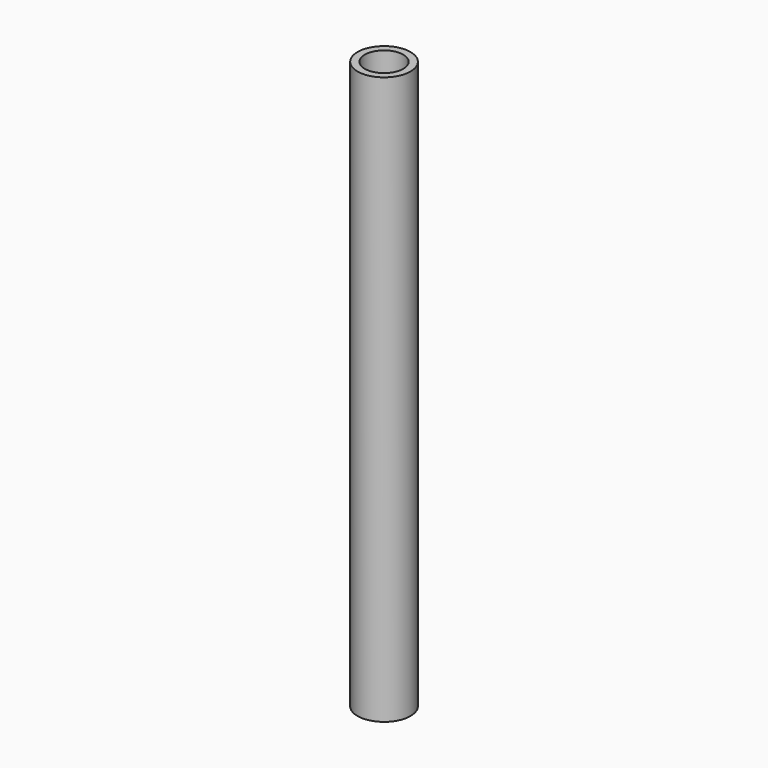
from build123d import *

# Parameters (mm, degrees)
F0_R     = 10.668
F0_R_2   = 7.747
F1_DEPTH = 228.6
F2_R     = 3.81
F3_DEPTH = 25.4


with BuildPart() as f1:
    # F0 (on Top) → F1 (new body)
    with BuildSketch(Plane.XY):
        Circle(F0_R)
        Circle(F0_R_2, mode=Mode.SUBTRACT)
    extrude(amount=F1_DEPTH)

    # F2 (on Right) → F3 (cut)
    with BuildSketch(Plane.YZ):
        with Locations((0, 63.5)):
            Circle(F2_R)
    extrude(amount=-F3_DEPTH, mode=Mode.SUBTRACT)


solid = f1.part
